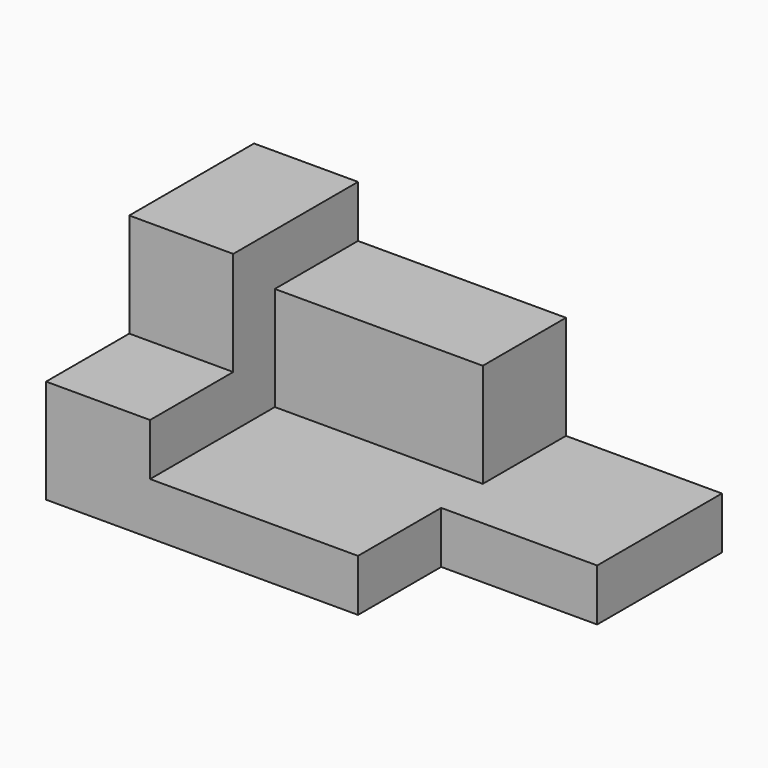
from build123d import *

# Parameters (mm, degrees)
F1_DEPTH = 10
F3_DEPTH = 20
F4_W     = 40
F4_H     = 20
F5_DEPTH = 20


with BuildPart() as f1:
    # F0 (on Top) → F1 (new body)
    with BuildSketch(Plane.XY):
        Polygon((-51.670955, 9.728418), (-51.670955, -40.271582), (8.329045, -40.271582), (8.329045, -20.271582), (38.329045, -20.271582), (38.329045, 9.728418), align=None)
    extrude(amount=F1_DEPTH)

    # F2 (on face) → F3 (join)
    with BuildSketch(Plane(origin=(-51.670955, 0, 0), x_dir=(0, -1, 0), z_dir=(-1, 0, 0))):
        Polygon((-9.728418, 40), (-9.728418, 10), (40.271582, 10), (40.271582, 20), (20.271582, 20), (20.271582, 40), align=None)
    extrude(amount=-F3_DEPTH)

    # F4 (on face) → F5 (join)
    with BuildSketch(Plane.XY.offset(10)):
        with Locations((-11.670955, -0.271582)):
            Rectangle(F4_W, F4_H)
    extrude(amount=F5_DEPTH)


solid = f1.part
